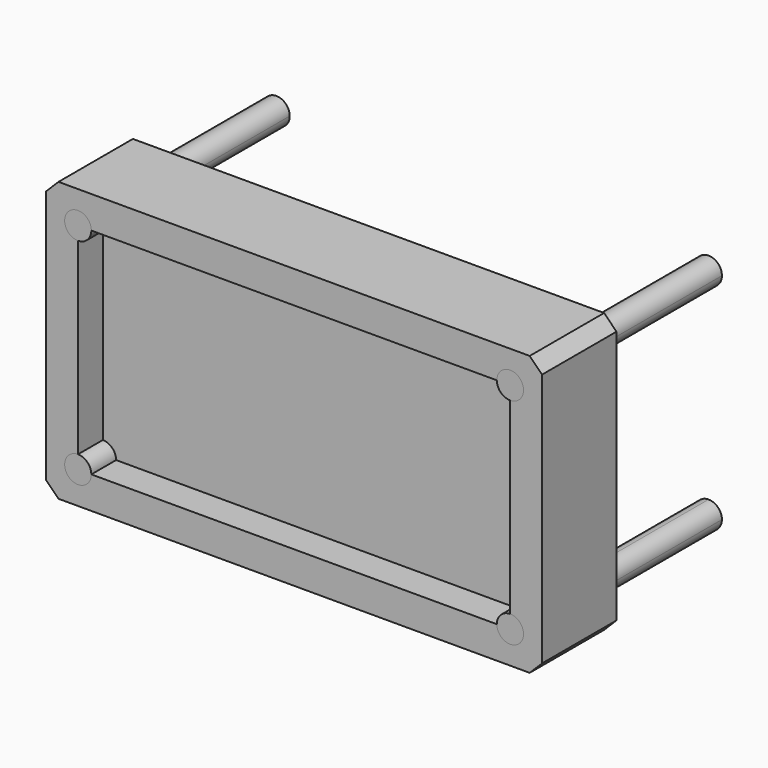
from build123d import *

# Parameters (mm, degrees)
F1_DEPTH = 25.4
F0_W     = 203.2
F0_H     = 114.3
F2_DEPTH = 38.1
F3_DEPTH = 38.1
F4_DEPTH = 63.5
F5_SIZE  = 5.08


with BuildPart() as f1:
    # F0 (on Front) → F1 (new body)
    with BuildSketch(Plane.XZ):
        with BuildLine():
            ThreePointArc((-88.5275304317, -38.5171881869), (-84.6660202997, -40.1166780548), (-83.0665304317, -43.9781881869))
            Line((-83.0665304317, -43.9781881869), (83.0665304317, -43.9781881869))
            ThreePointArc((83.0665304317, -43.9781881869), (84.6660202997, -40.1166780548), (88.5275304317, -38.5171881869))
            Line((88.5275304317, -38.5171881869), (88.5275304317, 38.5171881869))
            ThreePointArc((88.5275304317, 38.5171881869), (84.6660202997, 40.1166780548), (83.0665304317, 43.9781881869))
            Line((83.0665304317, 43.9781881869), (-83.0665304317, 43.9781881869))
            ThreePointArc((-83.0665304317, 43.9781881869), (-84.6660202997, 40.1166780548), (-88.5275304317, 38.5171881869))
            Line((-88.5275304317, 38.5171881869), (-88.5275304317, -38.5171881869))
        make_face()
    extrude(amount=F1_DEPTH)

    # F0 (on Front) → F2 (join)
    with BuildSketch(Plane.XZ):
        Rectangle(F0_W, F0_H)
        with BuildLine():
            Line((83.0665304317, -43.9781881869), (-83.0665304317, -43.9781881869))
            ThreePointArc((-83.0665304317, -43.9781881869), (-92.3890405638, -47.8396983189), (-88.5275304317, -38.5171881869))
            Line((-88.5275304317, -38.5171881869), (-88.5275304317, 38.5171881869))
            ThreePointArc((-88.5275304317, 38.5171881869), (-92.3890405638, 47.8396983189), (-83.0665304317, 43.9781881869))
            Line((-83.0665304317, 43.9781881869), (83.0665304317, 43.9781881869))
            ThreePointArc((83.0665304317, 43.9781881869), (88.5275304317, 49.4391881869), (93.9885304317, 43.9781881869))
            ThreePointArc((93.9885304317, 43.9781881869), (92.3890405638, 40.1166780548), (88.5275304317, 38.5171881869))
            Line((88.5275304317, 38.5171881869), (88.5275304317, -38.5171881869))
            ThreePointArc((88.5275304317, -38.5171881869), (92.3890405638, -40.1166780548), (93.9885304317, -43.9781881869))
            ThreePointArc((93.9885304317, -43.9781881869), (88.5275304317, -49.4391881869), (83.0665304317, -43.9781881869))
        make_face(mode=Mode.SUBTRACT)
    extrude(amount=F2_DEPTH)

    # F5
    f5_edges = [f1.edges().sort_by_distance(p)[0] for p in [
        (-101.6, -19.05, -57.15),
        (101.6, -19.05, -57.15),
        (101.6, -19.05, 57.15),
        (-101.6, -19.05, 57.15),
    ]]
    chamfer(f5_edges, length=F5_SIZE)


with BuildPart() as f3:
    # F0 (on Front) → F3 (new body)
    with BuildSketch(Plane.XZ):
        with BuildLine():
            ThreePointArc((-83.0665304317, 43.9781881869), (-92.3890405638, 47.8396983189), (-88.5275304317, 38.5171881869))
            Line((-88.5275304317, 38.5171881869), (-88.5275304317, 43.9781881869))
            Line((-88.5275304317, 43.9781881869), (-83.0665304317, 43.9781881869))
        make_face()
        with BuildLine():
            Line((-88.5275304317, 43.9781881869), (-88.5275304317, 38.5171881869))
            ThreePointArc((-88.5275304317, 38.5171881869), (-84.6660202997, 40.1166780548), (-83.0665304317, 43.9781881869))
            Line((-83.0665304317, 43.9781881869), (-88.5275304317, 43.9781881869))
        make_face()
    extrude(amount=F3_DEPTH)


with BuildPart() as f3b:
    # F0 (on Front) → F3, piece 2 (new body)
    with BuildSketch(Plane.XZ):
        with BuildLine():
            ThreePointArc((-88.5275304317, -38.5171881869), (-92.3890405638, -47.8396983189), (-83.0665304317, -43.9781881869))
            Line((-83.0665304317, -43.9781881869), (-88.5275304317, -43.9781881869))
            Line((-88.5275304317, -43.9781881869), (-88.5275304317, -38.5171881869))
        make_face()
        with BuildLine():
            Line((-88.5275304317, -43.9781881869), (-83.0665304317, -43.9781881869))
            ThreePointArc((-83.0665304317, -43.9781881869), (-84.6660202997, -40.1166780548), (-88.5275304317, -38.5171881869))
            Line((-88.5275304317, -38.5171881869), (-88.5275304317, -43.9781881869))
        make_face()
    extrude(amount=F3_DEPTH)


with BuildPart() as f3c:
    # F0 (on Front) → F3, piece 3 (new body)
    with BuildSketch(Plane.XZ):
        with BuildLine():
            Line((88.5275304317, 43.9781881869), (88.5275304317, 38.5171881869))
            ThreePointArc((88.5275304317, 38.5171881869), (92.3890405638, 40.1166780548), (93.9885304317, 43.9781881869))
            ThreePointArc((93.9885304317, 43.9781881869), (88.5275304317, 49.4391881869), (83.0665304317, 43.9781881869))
            Line((83.0665304317, 43.9781881869), (88.5275304317, 43.9781881869))
        make_face()
        with BuildLine():
            ThreePointArc((83.0665304317, 43.9781881869), (84.6660202997, 40.1166780548), (88.5275304317, 38.5171881869))
            Line((88.5275304317, 38.5171881869), (88.5275304317, 43.9781881869))
            Line((88.5275304317, 43.9781881869), (83.0665304317, 43.9781881869))
        make_face()
    extrude(amount=F3_DEPTH)


with BuildPart() as f3d:
    # F0 (on Front) → F3, piece 4 (new body)
    with BuildSketch(Plane.XZ):
        with BuildLine():
            Line((88.5275304317, -43.9781881869), (83.0665304317, -43.9781881869))
            ThreePointArc((83.0665304317, -43.9781881869), (88.5275304317, -49.4391881869), (93.9885304317, -43.9781881869))
            ThreePointArc((93.9885304317, -43.9781881869), (92.3890405638, -40.1166780548), (88.5275304317, -38.5171881869))
            Line((88.5275304317, -38.5171881869), (88.5275304317, -43.9781881869))
        make_face()
        with BuildLine():
            ThreePointArc((88.5275304317, -38.5171881869), (84.6660202997, -40.1166780548), (83.0665304317, -43.9781881869))
            Line((83.0665304317, -43.9781881869), (88.5275304317, -43.9781881869))
            Line((88.5275304317, -43.9781881869), (88.5275304317, -38.5171881869))
        make_face()
    extrude(amount=F3_DEPTH)


with BuildPart() as f4:
    # F0 (on Front) → F4 (new body)
    with BuildSketch(Plane.XZ):
        with BuildLine():
            ThreePointArc((-88.5275304317, -38.5171881869), (-92.3890405638, -47.8396983189), (-83.0665304317, -43.9781881869))
            Line((-83.0665304317, -43.9781881869), (-88.5275304317, -43.9781881869))
            Line((-88.5275304317, -43.9781881869), (-88.5275304317, -38.5171881869))
        make_face()
        with BuildLine():
            Line((-88.5275304317, -43.9781881869), (-83.0665304317, -43.9781881869))
            ThreePointArc((-83.0665304317, -43.9781881869), (-84.6660202997, -40.1166780548), (-88.5275304317, -38.5171881869))
            Line((-88.5275304317, -38.5171881869), (-88.5275304317, -43.9781881869))
        make_face()
    extrude(amount=-F4_DEPTH)


with BuildPart() as f4b:
    # F0 (on Front) → F4, piece 2 (new body)
    with BuildSketch(Plane.XZ):
        with BuildLine():
            Line((-88.5275304317, 43.9781881869), (-88.5275304317, 38.5171881869))
            ThreePointArc((-88.5275304317, 38.5171881869), (-84.6660202997, 40.1166780548), (-83.0665304317, 43.9781881869))
            Line((-83.0665304317, 43.9781881869), (-88.5275304317, 43.9781881869))
        make_face()
        with BuildLine():
            ThreePointArc((-83.0665304317, 43.9781881869), (-92.3890405638, 47.8396983189), (-88.5275304317, 38.5171881869))
            Line((-88.5275304317, 38.5171881869), (-88.5275304317, 43.9781881869))
            Line((-88.5275304317, 43.9781881869), (-83.0665304317, 43.9781881869))
        make_face()
    extrude(amount=-F4_DEPTH)


with BuildPart() as f4c:
    # F0 (on Front) → F4, piece 3 (new body)
    with BuildSketch(Plane.XZ):
        with BuildLine():
            ThreePointArc((88.5275304317, -38.5171881869), (84.6660202997, -40.1166780548), (83.0665304317, -43.9781881869))
            Line((83.0665304317, -43.9781881869), (88.5275304317, -43.9781881869))
            Line((88.5275304317, -43.9781881869), (88.5275304317, -38.5171881869))
        make_face()
        with BuildLine():
            Line((88.5275304317, -43.9781881869), (83.0665304317, -43.9781881869))
            ThreePointArc((83.0665304317, -43.9781881869), (88.5275304317, -49.4391881869), (93.9885304317, -43.9781881869))
            ThreePointArc((93.9885304317, -43.9781881869), (92.3890405638, -40.1166780548), (88.5275304317, -38.5171881869))
            Line((88.5275304317, -38.5171881869), (88.5275304317, -43.9781881869))
        make_face()
    extrude(amount=-F4_DEPTH)


with BuildPart() as f4d:
    # F0 (on Front) → F4, piece 4 (new body)
    with BuildSketch(Plane.XZ):
        with BuildLine():
            ThreePointArc((83.0665304317, 43.9781881869), (84.6660202997, 40.1166780548), (88.5275304317, 38.5171881869))
            Line((88.5275304317, 38.5171881869), (88.5275304317, 43.9781881869))
            Line((88.5275304317, 43.9781881869), (83.0665304317, 43.9781881869))
        make_face()
        with BuildLine():
            Line((88.5275304317, 43.9781881869), (88.5275304317, 38.5171881869))
            ThreePointArc((88.5275304317, 38.5171881869), (92.3890405638, 40.1166780548), (93.9885304317, 43.9781881869))
            ThreePointArc((93.9885304317, 43.9781881869), (88.5275304317, 49.4391881869), (83.0665304317, 43.9781881869))
            Line((83.0665304317, 43.9781881869), (88.5275304317, 43.9781881869))
        make_face()
    extrude(amount=-F4_DEPTH)


solid = Compound([f1.part, f3.part, f3b.part, f3c.part, f3d.part, f4.part, f4b.part, f4c.part, f4d.part])
